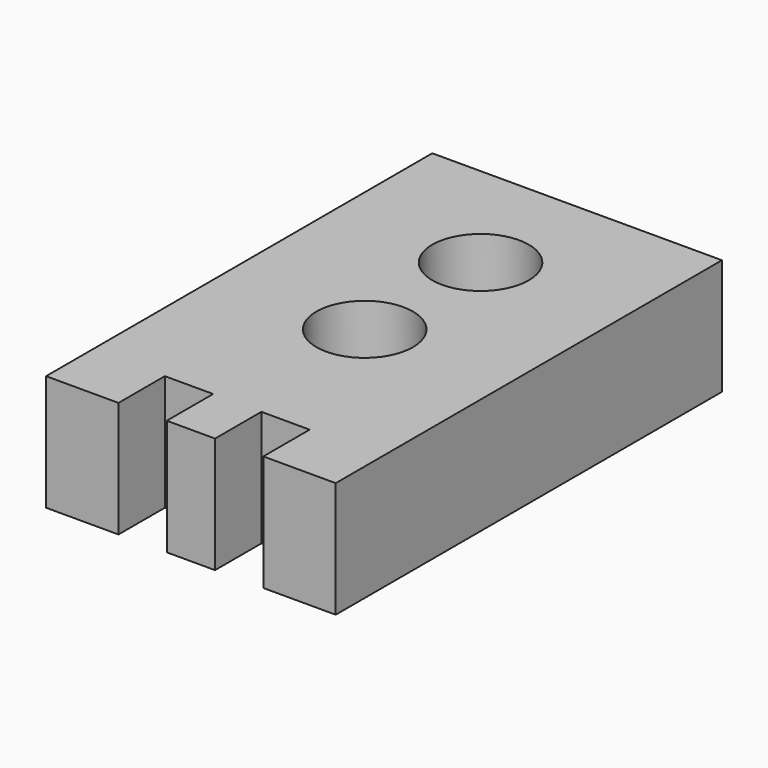
from build123d import *

# Parameters (mm, degrees)
F1_DEPTH = 12
F2_R     = 5
F3_DEPTH = 77.7


with BuildPart() as f1:
    # F0 (on Top) → F1 (new body)
    with BuildSketch(Plane.XY):
        Polygon((-20.183631, 5.870848), (-50.183631, 5.870848), (-50.183631, -44.129152), (-42.683631, -44.129152), (-42.683631, -38.129152), (-37.683631, -38.129152), (-37.683631, -44.129152), (-32.683631, -44.129152), (-32.683631, -38.129152), (-27.683631, -38.129152), (-27.683631, -44.129152), (-20.183631, -44.129152), align=None)
    extrude(amount=F1_DEPTH)

    # F2 (on Top) → F3 (cut)
    with BuildSketch(Plane.XY):
        with Locations((-35.183631, -6.629152)):
            Circle(F2_R)
        with Locations((-35.183631, -21.629152)):
            Circle(F2_R)
    extrude(amount=F3_DEPTH, mode=Mode.SUBTRACT)


solid = f1.part
